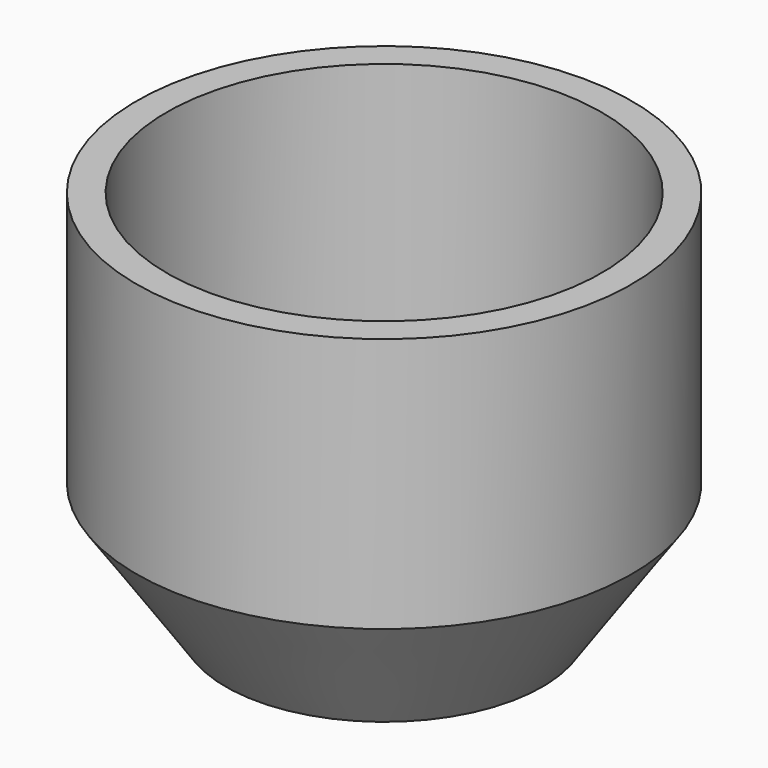
from build123d import *


with BuildPart() as f1:
    # F0 (on Right) → F1 (revolve)
    with BuildSketch(Plane.YZ):
        with BuildLine():
            Line((39.344575, 69.362512), (39.344575, 26.785046))
            ThreePointArc((39.344575, 26.785046), (19.482722, 17.980004), (7.286764, 0))
            Line((7.286764, 0), (28.648164, 0))
            Line((28.648164, 0), (44.814545, 23.200929))
            Line((44.814545, 23.200929), (44.814545, 69.362512))
            Line((44.814545, 69.362512), (39.344575, 69.362512))
        make_face()
    revolve(axis=Axis((0, 0, 35.740901), (0, 0, 1)))


solid = f1.part
